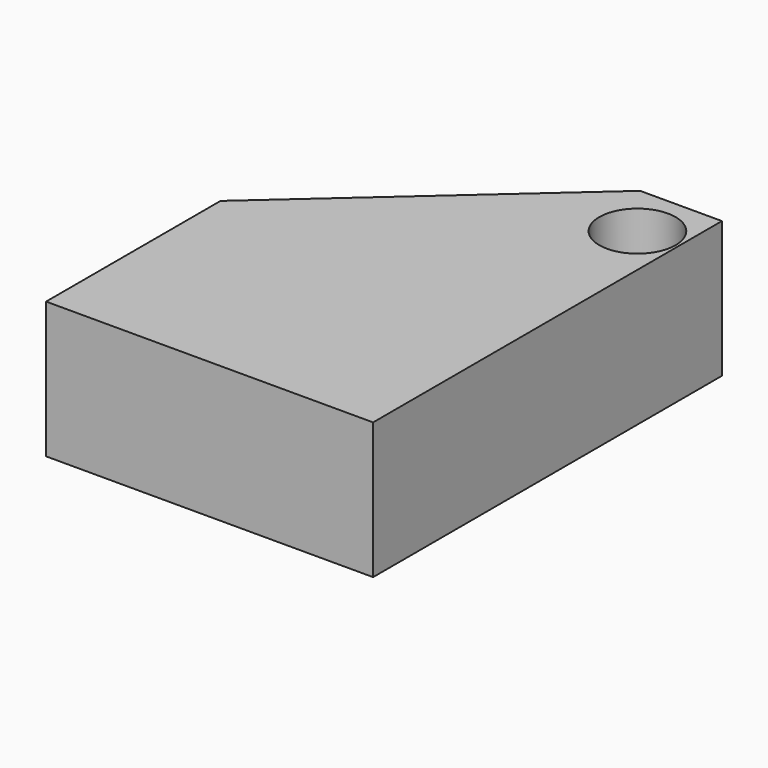
from build123d import *

# Parameters (mm, degrees)
F1_DEPTH = 3.175
F2_D     = 1.778


with BuildPart() as f1:
    # F0 (on Top) → F1 (new body)
    with BuildSketch(Plane.XY):
        Polygon((-3.81, -5.08), (3.81, -5.08), (3.81, 0), (3.81, 2.54), (1.905, 5.08), (-3.81, 0), align=None)
        Polygon((1.905, 5.08), (3.81, 2.54), (3.81, 5.08), align=None)
    extrude(amount=F1_DEPTH)

    # F2 (through all)
    with Locations(Plane(origin=(0, 0, 0), x_dir=(1, 0, 0), z_dir=(0, 0, -1))):
        with Locations((2.8575, -3.81)):
            Hole(F2_D / 2)


solid = f1.part
